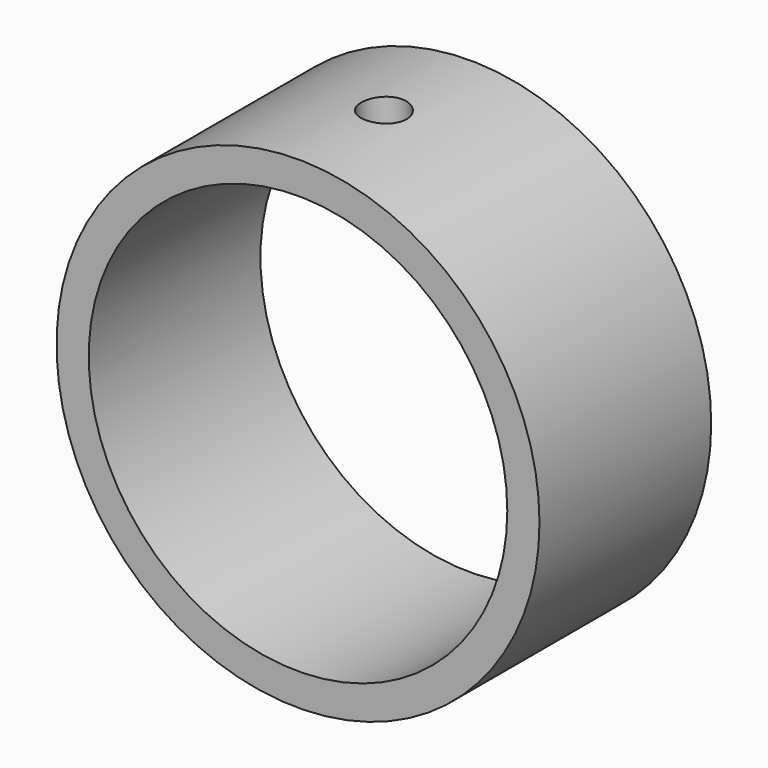
from build123d import *

# Parameters (mm, degrees)
F0_R     = 57.15
F0_R_2   = 49.53
F1_DEPTH = 25.4
F3_D     = 10.71626
F3_DEPTH = 57.151


with BuildPart() as f1:
    # F0 (on Front) → F1 (new body, symmetric)
    with BuildSketch(Plane.XZ):
        Circle(F0_R)
        Circle(F0_R_2, mode=Mode.SUBTRACT)
    extrude(amount=F1_DEPTH, both=True)

    # F3 (through all, one way)
    with BuildSketch(Plane(origin=(0, 0, 0), x_dir=(1, 0, 0), z_dir=(0, 0, -1))):
        with Locations((0, 0)):
            Circle(F3_D / 2)
    extrude(amount=-F3_DEPTH, mode=Mode.SUBTRACT)


solid = f1.part
